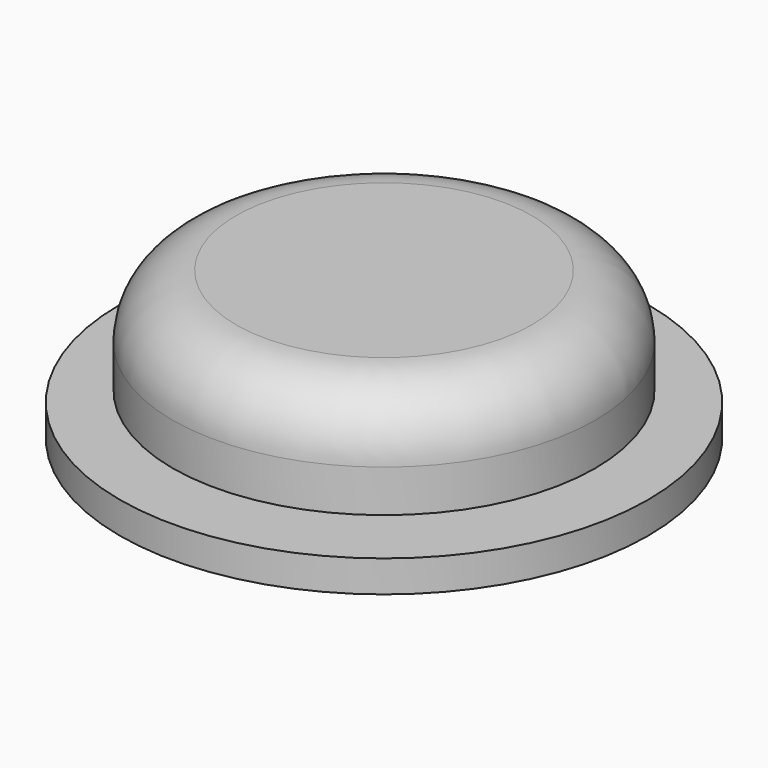
from build123d import *

# Parameters (mm, degrees)
F0_R      = 25
F1_DEPTH  = 3
F3_DEPTH  = 25
F5_R      = 20
F5_R_2    = 2
F6_DEPTH  = 10
F7_R      = 2
F8_DEPTH  = 1.5
F9_R      = 6
F10_W     = 6
F10_H     = 6
F11_DEPTH = 25


with BuildPart() as f1:
    # F0 (on Top) → F1 (new body)
    with BuildSketch(Plane.XY):
        Circle(F0_R)
    extrude(amount=F1_DEPTH)

    # F2 (on face) → F3 (cut)
    with BuildSketch(Plane.XY.offset(3)):
        Polygon((-5, 0), (-5, -17.499997), (5, -17.499997), (5, 0), (5, 5), (-5, 5), align=None)
    extrude(amount=-F3_DEPTH, mode=Mode.SUBTRACT)

    # F10 (on face) → F11 (cut)
    with BuildSketch(Plane.XY.offset(3)):
        with Locations((-15, 0)):
            Rectangle(F10_W, F10_H)
        with Locations((15, 0)):
            Rectangle(F10_W, F10_H)
    extrude(amount=-F11_DEPTH, mode=Mode.SUBTRACT)


with BuildPart() as f6:
    # F5 (on offset) → F6 (new body)
    with BuildSketch(Plane.XY.offset(4)):
        Circle(F5_R)
        Circle(F5_R_2, mode=Mode.SUBTRACT)
    extrude(amount=F6_DEPTH)

    # F7 (on face) → F8 (join)
    with BuildSketch(Plane.XY.offset(14)):
        Circle(F7_R)
    extrude(amount=-F8_DEPTH)

    # F9
    f9_edges = [f6.edges().sort_by_distance(p)[0] for p in [
        (-20, 0, 14),
    ]]
    fillet(f9_edges, radius=F9_R)


solid = Compound([f1.part, f6.part])
